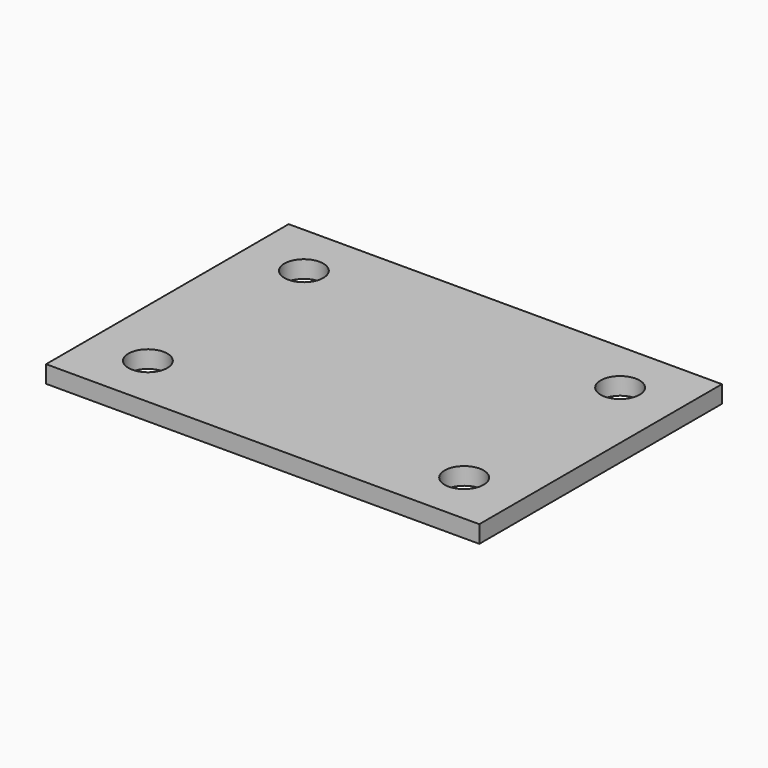
from build123d import *

# Parameters (mm, degrees)
F0_W     = 100
F0_H     = 70
F1_DEPTH = 4
F2_R     = 4.5
F3_DEPTH = 4


with BuildPart() as f1:
    # F0 (on Top) → F1 (new body)
    with BuildSketch(Plane.XY):
        Rectangle(F0_W, F0_H)
    extrude(amount=-F1_DEPTH)

    # F2 (on face) → F3 (cut, through all)
    with BuildSketch(Plane.XY):
        with Locations((-36.5, 22.5)):
            Circle(F2_R)
        with Locations((36.5, 22.5)):
            Circle(F2_R)
        with Locations((-36.5, -22.5)):
            Circle(F2_R)
        with Locations((36.5, -22.5)):
            Circle(F2_R)
    extrude(amount=-F3_DEPTH, mode=Mode.SUBTRACT)


solid = f1.part
